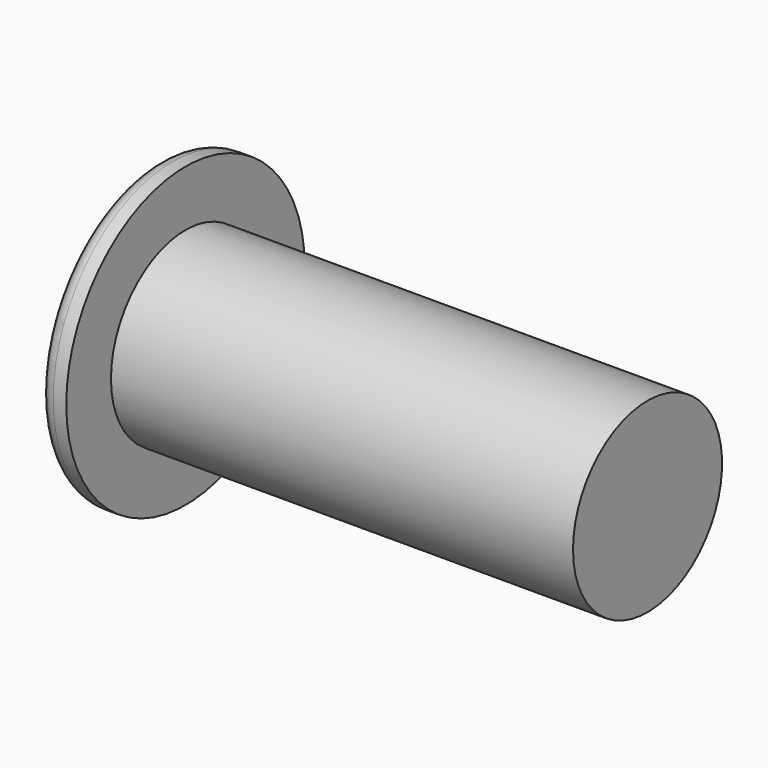
from build123d import *

# Parameters (mm, degrees)
F2_R     = 0.8
F4_DEPTH = 6


with BuildPart() as f1:
    # F0 (on Top) → F1 (revolve)
    with BuildSketch(Plane.XY):
        Polygon((26.3, 0), (0, 0), (0, -8), (1.5, -8), (1.5, -5), (26.3, -5), align=None)
    revolve(axis=Axis((13.15, 0, 0), (1, 0, 0)))

    # F2
    f2_edges = [f1.edges().sort_by_distance(p)[0] for p in [
        (0, 8, 0),
    ]]
    fillet(f2_edges, radius=F2_R)

    # F3 (on face) → F4 (cut)
    with BuildSketch(Plane(origin=(0, 0, 0), x_dir=(0, -1, 0), z_dir=(-1, 0, 0))):
        Polygon((1.445, 2.502813), (-1.445, 2.502813), (-2.89, 0), (-1.445, -2.502813), (1.445, -2.502813), (2.89, 0), align=None)
    extrude(amount=-F4_DEPTH, mode=Mode.SUBTRACT)


solid = f1.part
